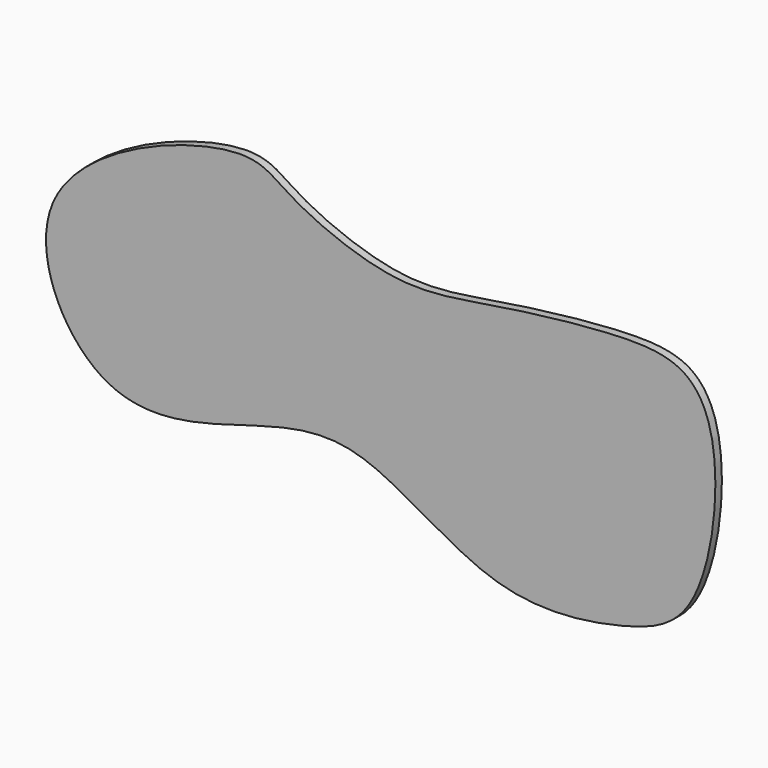
from build123d import *

# Parameters (mm, degrees)
F1_DEPTH = 1


with BuildPart() as f1:
    # F0 (on Front) → F1 (new body)
    with BuildSketch(Plane.XZ):
        with BuildLine():
            add(Edge.make_bspline(
                [(-14.1001837328, 25.2268593758), (-20.0166113007, 25.1468959799), (-44.3703373156, 16.2833106674), (-32.124717693, -9.1149984229), (-14.0135574143, -4.169496792), (0.446214521, 0.4887959299), (16.5278517391, -13.2183178852), (32.8565168268, -10.9463478818), (42.6632049964, -7.1593149924), (45.4131095114, 10.6032774251), (41.7791723529, 20.4359487571), (31.7259043854, 20.990235563), (16.3487089691, 19.0165621474), (5.1366649018, 16.782224546), (-8.3691608542, 22.3781360741), (-11.0590112271, 25.2679623013), (-14.1001837328, 25.2268593758)],
                knots=[0, 0, 0, 0, 0.0969975236, 0.1792219852, 0.2564174028, 0.3289399675, 0.4127405933, 0.4880902129, 0.5466198617, 0.6245651306, 0.6822881592, 0.738886857, 0.8144650834, 0.8804536614, 0.9501411623, 1, 1, 1, 1], degree=3))
        make_face()
    extrude(amount=F1_DEPTH)


solid = f1.part
